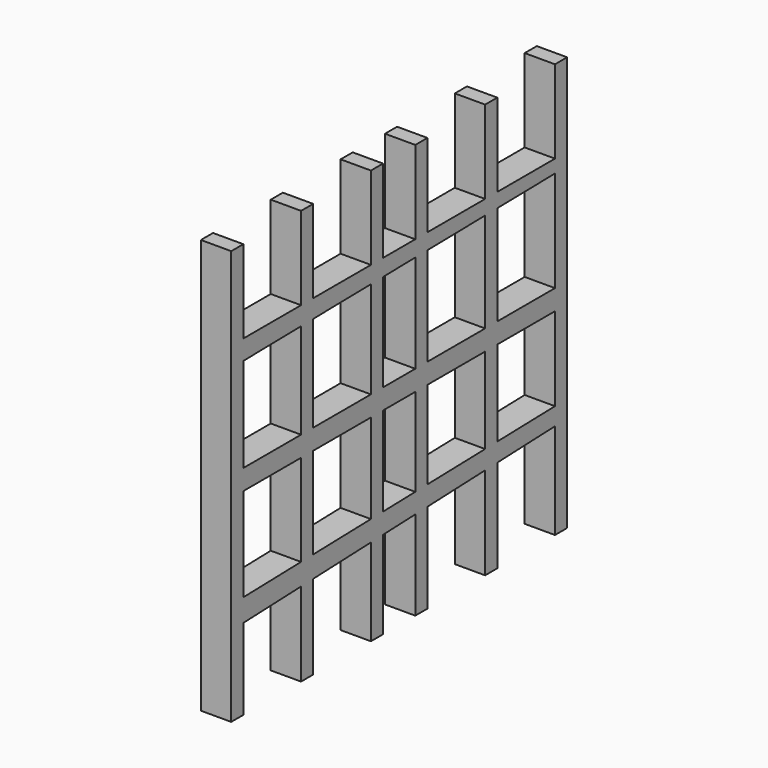
from build123d import *

# Parameters (mm, degrees)
F0_W     = 13.3
F0_H     = 6.7
F0_W_2   = 5
F0_H_2   = 58.3
F0_W_3   = 23.8
F1_DEPTH = 10
F3_DEPTH = 10


with BuildPart() as f1:
    # F0 (on Right) → F1 (new body)
    with BuildSketch(Plane.YZ):
        with Locations((6.65, -3.35)):
            Rectangle(F0_W, F0_H)
        with Locations((-2.5, 29.15)):
            Rectangle(F0_W_2, F0_H_2)
        with Locations((-2.5, -3.35)):
            Rectangle(F0_W_2, F0_H)
        with Locations((-2.5, -35.85)):
            Rectangle(F0_W_2, F0_H_2)
        with Locations((-2.5, 61.65)):
            Rectangle(F0_W_2, F0_H)
        with Locations((-16.9, -3.35)):
            Rectangle(F0_W_3, F0_H)
        with Locations((15.8, -3.35)):
            Rectangle(F0_W_2, F0_H)
        with Locations((15.8, 29.15)):
            Rectangle(F0_W_2, F0_H_2)
        with Locations((-2.5, -68.35)):
            Rectangle(F0_W_2, F0_H)
        with Locations((15.8, -35.85)):
            Rectangle(F0_W_2, F0_H_2)
        with Locations((-31.3, 29.15)):
            Rectangle(F0_W_2, F0_H_2)
        with Locations((-31.3, -3.35)):
            Rectangle(F0_W_2, F0_H)
        with Locations((15.8, 61.65)):
            Rectangle(F0_W_2, F0_H)
        with Locations((30.2, -3.35)):
            Rectangle(F0_W_3, F0_H)
        with Locations((-31.3, -35.85)):
            Rectangle(F0_W_2, F0_H_2)
        with Locations((15.8, -68.35)):
            Rectangle(F0_W_2, F0_H)
        with Locations((-31.3, 61.65)):
            Rectangle(F0_W_2, F0_H)
        with Locations((-45.7, -3.35)):
            Rectangle(F0_W_3, F0_H)
        with Locations((44.6, -3.35)):
            Rectangle(F0_W_2, F0_H)
        with Locations((44.6, 29.15)):
            Rectangle(F0_W_2, F0_H_2)
        with Locations((-31.3, -68.35)):
            Rectangle(F0_W_2, F0_H)
        with Locations((44.6, -35.85)):
            Rectangle(F0_W_2, F0_H_2)
        with Locations((-60.1, 29.15)):
            Rectangle(F0_W_2, F0_H_2)
        with Locations((-60.1, -3.35)):
            Rectangle(F0_W_2, F0_H)
        with Locations((44.6, 61.65)):
            Rectangle(F0_W_2, F0_H)
        with Locations((59, -3.35)):
            Rectangle(F0_W_3, F0_H)
        with Locations((-60.1, -35.85)):
            Rectangle(F0_W_2, F0_H_2)
        with Locations((44.6, -68.35)):
            Rectangle(F0_W_2, F0_H)
        with Locations((-60.1, 61.65)):
            Rectangle(F0_W_2, F0_H)
        with Locations((73.4, -3.35)):
            Rectangle(F0_W_2, F0_H)
        with Locations((73.4, 29.15)):
            Rectangle(F0_W_2, F0_H_2)
        with Locations((-60.1, -68.35)):
            Rectangle(F0_W_2, F0_H)
        with Locations((73.4, -35.85)):
            Rectangle(F0_W_2, F0_H_2)
        with Locations((73.4, 61.65)):
            Rectangle(F0_W_2, F0_H)
        with Locations((73.4, -68.35)):
            Rectangle(F0_W_2, F0_H)
    extrude(amount=F1_DEPTH)

    # F2 (on Right) → F3 (join)
    with BuildSketch(Plane.YZ):
        Polygon((72.7696269751, -40.0281436741), (72.3963975906, -34.2431887984), (-59.9110648036, -37.6021936536), (-59.7216802819, -45.0618391617), align=None)
        Polygon((72.209790349, 33.3101339638), (72.7696269751, 37.6021936536), (-59.1646246612, 37.6021936536), (-59.1646246612, 31.0707949102), align=None)
    extrude(amount=F3_DEPTH)


solid = f1.part
